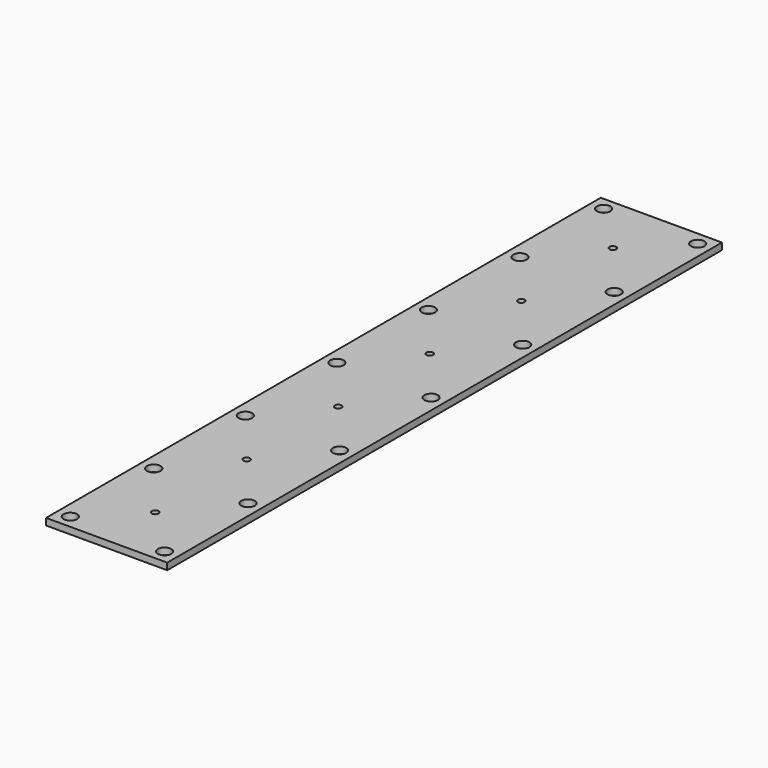
from build123d import *

# Parameters (mm, degrees)
F0_W     = 90
F0_H     = 515
F0_R     = 5
F1_DEPTH = 5
F2_R     = 2.5
F3_DEPTH = 25


with BuildPart() as f1:
    # F0 (on Top) → F1 (new body)
    with BuildSketch(Plane.XY):
        Rectangle(F0_W, F0_H)
        with Locations((-35, -247.5)):
            Circle(F0_R, mode=Mode.SUBTRACT)
        with Locations((-35, -170)):
            Circle(F0_R, mode=Mode.SUBTRACT)
        with Locations((-35, -85)):
            Circle(F0_R, mode=Mode.SUBTRACT)
        with Locations((35, -247.5)):
            Circle(F0_R, mode=Mode.SUBTRACT)
        with Locations((35, -170)):
            Circle(F0_R, mode=Mode.SUBTRACT)
        with Locations((35, -85)):
            Circle(F0_R, mode=Mode.SUBTRACT)
        with Locations((-35, 0)):
            Circle(F0_R, mode=Mode.SUBTRACT)
        with Locations((-35, 85)):
            Circle(F0_R, mode=Mode.SUBTRACT)
        with Locations((-35, 170)):
            Circle(F0_R, mode=Mode.SUBTRACT)
        with Locations((-35, 247.678571)):
            Circle(F0_R, mode=Mode.SUBTRACT)
        with Locations((35, 0)):
            Circle(F0_R, mode=Mode.SUBTRACT)
        with Locations((35, 85)):
            Circle(F0_R, mode=Mode.SUBTRACT)
        with Locations((35, 170)):
            Circle(F0_R, mode=Mode.SUBTRACT)
        with Locations((35, 247.5)):
            Circle(F0_R, mode=Mode.SUBTRACT)
    extrude(amount=F1_DEPTH)

    # F2 (on face) → F3 (cut)
    with BuildSketch(Plane.XY.offset(5)):
        with Locations((0, 212.5)):
            Circle(F2_R)
        with Locations((0, 127.5)):
            Circle(F2_R)
        with Locations((0, 42.5)):
            Circle(F2_R)
        with Locations((0, -42.5)):
            Circle(F2_R)
        with Locations((0, -127.5)):
            Circle(F2_R)
        with Locations((0, -212.5)):
            Circle(F2_R)
    extrude(amount=-F3_DEPTH, mode=Mode.SUBTRACT)


solid = f1.part
